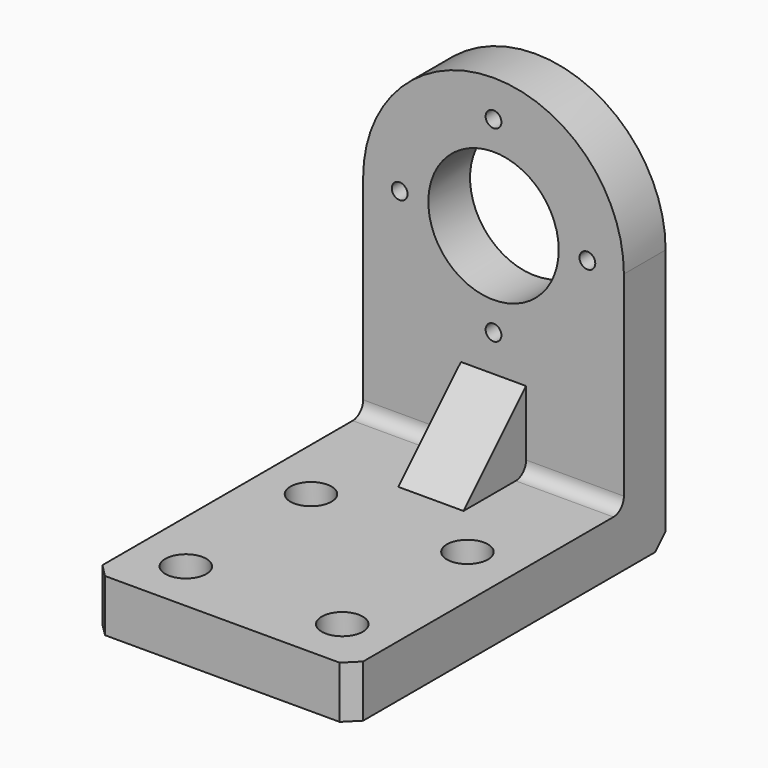
from build123d import *

# Parameters (mm, degrees)
F0_R            = 50
F1_DEPTH        = 40
F2_D            = 12.1
F3_SIZE         = 5
F4_DEPTH        = 300
F6_DEPTH        = 25
F7_SIZE         = 10
F8_R            = 10
F10_D           = 17.5
F10_CBORE_D     = 31.5
F10_CBORE_DEPTH = 20


with BuildPart() as f1:
    # F0 (on Front) → F1 (new body)
    with BuildSketch(Plane.XZ):
        Polygon((-100, 0), (0, 0), (100, 0), (100, 40), (-100, 40), align=None)
        with BuildLine():
            Line((-100, 40), (100, 40))
            Line((100, 40), (100, 200))
            ThreePointArc((100, 200), (0, 100), (-100, 200))
            Line((-100, 200), (-100, 40))
        make_face()
        with BuildLine():
            ThreePointArc((-100, 200), (0, 100), (100, 200))
            ThreePointArc((100, 200), (0, 300), (-100, 200))
        make_face()
        with Locations((0, 200)):
            Circle(F0_R, mode=Mode.SUBTRACT)
    extrude(amount=F1_DEPTH)

    # F2 (through all)
    with Locations(Plane(origin=(0, 0, 0), x_dir=(1, 0, 0), z_dir=(0, 1, 0))):
        with Locations((72, -200), (0, -128), (-72, -200), (0, -272)):
            Hole(F2_D / 2)

    # F3
    f3_edges = [f1.edges().sort_by_distance(p)[0] for p in [
        (-100, -20, 0),
        (100, -20, 0),
    ]]
    chamfer(f3_edges, length=F3_SIZE)

    # F0 (on Front) → F4 (join)
    with BuildSketch(Plane.XZ):
        Polygon((-100, 0), (0, 0), (100, 0), (100, 40), (-100, 40), align=None)
    extrude(amount=F4_DEPTH)

    # F5 (on Right) → F6 (join, symmetric)
    with BuildSketch(Plane.YZ):
        Polygon((-100, 40), (-40, 40), (-40, 100), align=None)
    extrude(amount=F6_DEPTH, both=True)

    # F7
    f7_edges = [f1.edges().sort_by_distance(p)[0] for p in [
        (-100, -300, 20),
        (100, -300, 20),
        (0, 0, 0),
    ]]
    chamfer(f7_edges, length=F7_SIZE)

    # F8
    f8_edges = [f1.edges().sort_by_distance(p)[0] for p in [
        (-62.5, -40, 40),
        (62.5, -40, 40),
    ]]
    fillet(f8_edges, radius=F8_R)

    # F10 (through all)
    with Locations(Plane.XY.offset(40)):
        with Locations((60, -140), (60, -260), (-60, -260), (-60, -140)):
            CounterBoreHole(F10_D / 2, F10_CBORE_D / 2, F10_CBORE_DEPTH)


solid = f1.part
